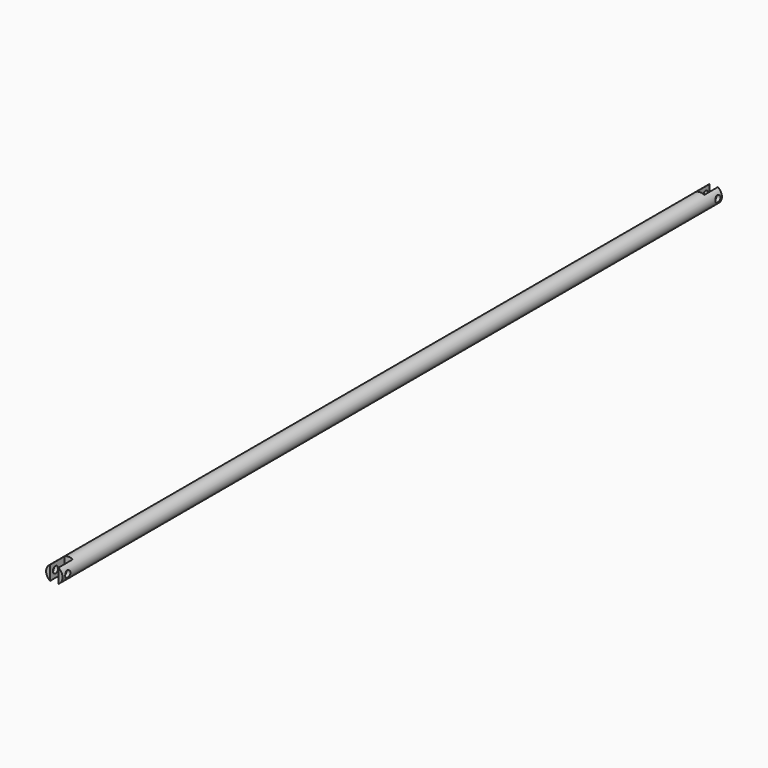
from build123d import *

# Parameters (mm, degrees)
F0_R      = 3.175
F1_DEPTH  = 298.45
F2_W      = 3.175
F2_H      = 13.081
F3_DEPTH  = 12.7
F4_R      = 1.27
F5_DEPTH  = 12.7
F6_DEPTH  = 19.05
F7_W      = 3.175
F7_H      = 12.7
F8_DEPTH  = 12.7
F9_R      = 1.27
F10_DEPTH = 12.7


with BuildPart() as f1:
    # F0 (on Front) → F1 (new body)
    with BuildSketch(Plane.XZ):
        Circle(F0_R)
    extrude(amount=F1_DEPTH)

    # F2 (on Top) → F3 (cut, symmetric)
    with BuildSketch(Plane.XY):
        Rectangle(F2_W, F2_H)
    extrude(amount=F3_DEPTH, both=True, mode=Mode.SUBTRACT)

    # F4 (on Right) → F5 (cut, symmetric)
    with BuildSketch(Plane.YZ):
        with Locations((-1.905, 0)):
            Circle(F4_R)
    extrude(amount=F5_DEPTH, both=True, mode=Mode.SUBTRACT)

    # F6 (add): a face of the model
    f6_faces = [f1.faces().sort_by_distance(p)[0] for p in [
        (0, -298.45, 0),
    ]]
    extrude(f6_faces, amount=F6_DEPTH)

    # F7 (on Top) → F8 (cut, symmetric)
    with BuildSketch(Plane.XY):
        with Locations((0, -316.9831931591)):
            Rectangle(F7_W, F7_H)
    extrude(amount=F8_DEPTH, both=True, mode=Mode.SUBTRACT)

    # F9 (on Right) → F10 (cut, symmetric)
    with BuildSketch(Plane.YZ):
        with Locations((-314.9411380291, 0)):
            Circle(F9_R)
    extrude(amount=F10_DEPTH, both=True, mode=Mode.SUBTRACT)


solid = f1.part
